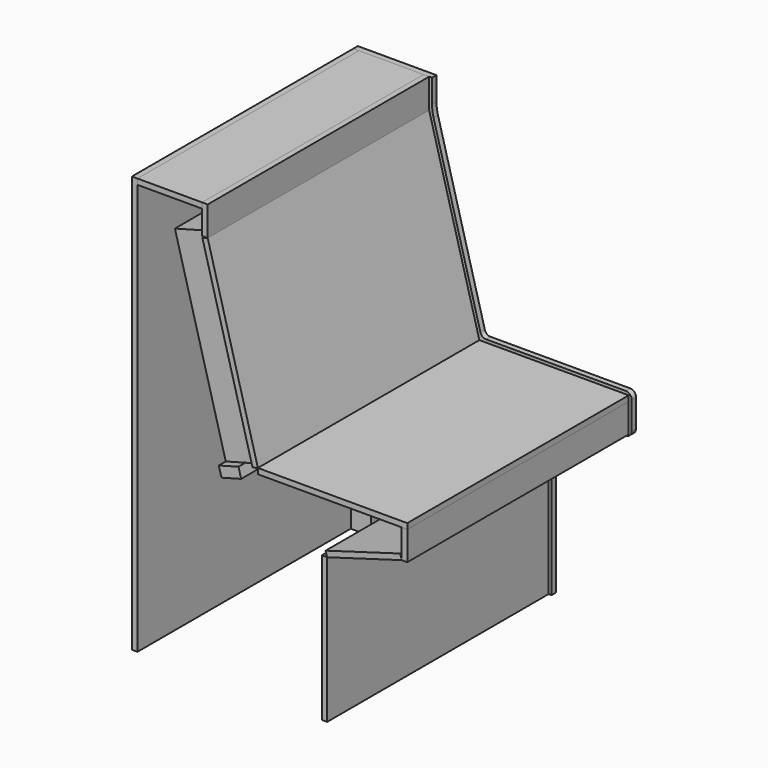
from build123d import *

# Parameters (mm, degrees)
F0_W     = 18
F0_H     = 497.5054570848
F0_W_2   = 222
F0_H_2   = 19
F0_W_3   = 19
F0_H_3   = 99.0218156425
F1_DEPTH = 19
F2_DEPTH = 950
F3_DEPTH = 950
F5_DEPTH = 920
F6_W     = 70
F6_H     = 1411
F7_DEPTH = 35
F6_H_2   = 497.5054570848
F6_W_2   = 493.6592622864
F6_H_3   = 70
F8_DEPTH = 950


with BuildPart() as f1:
    # F0 (on Front) → F1 (new body)
    with BuildSketch(Plane.XZ):
        Polygon((432.3407377136, 690), (260, 1328.6744985857), (241.6561148831, 1323.7245613319), (413.9968525967, 685.0500627462), align=None)
        Polygon((945, 690), (432.3407377136, 690), (432.3407377136, 671), (926, 671), (945, 671), align=None)
        Polygon((664.6927387242, 515.7491677203), (670, 497.5054570848), (926, 571.9781843575), (920.6927387242, 590.221894993), align=None)
        with Locations((661, 248.7527285424)):
            Rectangle(F0_W, F0_H)
        Polygon((0, 1430), (0, 0), (19, 0), (19, 1411), (19, 1430), align=None)
        with Locations((130, 1420.5)):
            Rectangle(F0_W_2, F0_H_2)
        Polygon((260, 1430), (241, 1430), (241, 1411), (241, 1328.6744985857), (260, 1328.6744985857), align=None)
        with BuildLine():
            Line((670, 497.5054570848), (670, 0))
            Line((670, 0), (680, 0))
            Line((680, 0), (680, 474.9890858304))
            ThreePointArc((680, 474.9890858304), (684.0041909187, 486.99467169), (694.4134091834, 494.1929917624))
            Line((694.4134091834, 494.1929917624), (940.5865908166, 565.8070082376))
            ThreePointArc((940.5865908166, 565.8070082376), (950.9958090813, 573.00532831), (955, 585.0109141696))
            Line((955, 585.0109141696), (955, 680))
            ThreePointArc((955, 680), (949.1421356237, 694.1421356237), (935, 700))
            Line((935, 700), (455.3185245728, 700))
            ThreePointArc((455.3185245728, 700), (443.1572994154, 704.122197801), (436.0091718181, 714.7895397329))
            Line((436.0091718181, 714.7895397329), (275.1798543399, 1310.8040692109))
            ThreePointArc((275.1798543399, 1310.8040692109), (271.300602138, 1330.1723949973), (270, 1349.8825212144))
            Line((270, 1349.8825212144), (270, 1430))
            Line((270, 1430), (260, 1430))
            Line((260, 1430), (260, 1328.6744985857))
            Line((260, 1328.6744985857), (432.3407377136, 690))
            Line((432.3407377136, 690), (945, 690))
            Line((945, 690), (945, 671))
            Line((945, 671), (945, 571.9781843575))
            Line((945, 571.9781843575), (926, 571.9781843575))
            Line((926, 571.9781843575), (670, 497.5054570848))
        make_face()
        with Locations((935.5, 621.4890921788)):
            Rectangle(F0_W_3, F0_H_3)
        Polygon((19, 1411), (19, 0), (652, 0), (652, 497.5054570848), (670, 497.5054570848), (664.6927387242, 515.7491677203), (920.6927387242, 590.221894993), (926, 571.9781843575), (926, 671), (432.3407377136, 671), (432.3407377136, 690), (413.9968525967, 685.0500627462), (241.6561148831, 1323.7245613319), (260, 1328.6744985857), (241, 1328.6744985857), (241, 1411), align=None)
    extrude(amount=-F1_DEPTH)


with BuildPart() as f2:
    # F0 (on Front) → F2 (new body)
    with BuildSketch(Plane.XZ):
        Polygon((0, 1430), (0, 0), (19, 0), (19, 1411), (19, 1430), align=None)
    extrude(amount=F2_DEPTH)


with BuildPart() as f2b:
    # F0 (on Front) → F2, piece 2 (new body)
    with BuildSketch(Plane.XZ):
        with Locations((661, 248.7527285424)):
            Rectangle(F0_W, F0_H)
    extrude(amount=F2_DEPTH)


with BuildPart() as f2c:
    # F0 (on Front) → F2, piece 3 (new body)
    with BuildSketch(Plane.XZ):
        Polygon((664.6927387242, 515.7491677203), (670, 497.5054570848), (926, 571.9781843575), (920.6927387242, 590.221894993), align=None)
    extrude(amount=F2_DEPTH)


with BuildPart() as f2d:
    # F0 (on Front) → F2, piece 4 (new body)
    with BuildSketch(Plane.XZ):
        Polygon((945, 690), (432.3407377136, 690), (432.3407377136, 671), (926, 671), (945, 671), align=None)
    extrude(amount=F2_DEPTH)


with BuildPart() as f2e:
    # F0 (on Front) → F2, piece 5 (new body)
    with BuildSketch(Plane.XZ):
        Polygon((432.3407377136, 690), (260, 1328.6744985857), (241.6561148831, 1323.7245613319), (413.9968525967, 685.0500627462), align=None)
    extrude(amount=F2_DEPTH)


with BuildPart() as f2f:
    # F0 (on Front) → F2, piece 6 (new body)
    with BuildSketch(Plane.XZ):
        Polygon((260, 1430), (241, 1430), (241, 1411), (241, 1328.6744985857), (260, 1328.6744985857), align=None)
    extrude(amount=F2_DEPTH)


with BuildPart() as f3:
    # F0 (on Front) → F3 (new body)
    with BuildSketch(Plane.XZ):
        with Locations((935.5, 621.4890921788)):
            Rectangle(F0_W_3, F0_H_3)
    extrude(amount=F3_DEPTH)


with BuildPart() as f3b:
    # F0 (on Front) → F3, piece 2 (new body)
    with BuildSketch(Plane.XZ):
        with Locations((130, 1420.5)):
            Rectangle(F0_W_2, F0_H_2)
    extrude(amount=F3_DEPTH)


with BuildPart() as f5:
    # F4 (on Front) → F5 (new body)
    with BuildSketch(Plane.XZ):
        Polygon((413.9968525967, 685.0500627462), (239.4464336476, 1331.9133800279), (123.5903171196, 1300.6506184251), (298.1407360686, 653.7873011434), align=None)
    extrude(amount=F5_DEPTH)


with BuildPart() as f7:
    # F6 (on Front) → F7 (new body)
    with BuildSketch(Plane.XZ):
        with Locations((54, 705.5)):
            Rectangle(F6_W, F6_H)
    extrude(amount=F7_DEPTH)


with BuildPart() as f7b:
    # F6 (on Front) → F7, piece 2 (new body)
    with BuildSketch(Plane.XZ):
        Polygon((374.8417761774, 638.2325447577), (307.2590415361, 619.9959338227), (307.2590415361, 0), (377.2590415361, 0), (377.2590415361, 638.8848227116), align=None)
    extrude(amount=F7_DEPTH)


with BuildPart() as f7c:
    # F6 (on Front) → F7, piece 3 (new body)
    with BuildSketch(Plane.XZ):
        with Locations((617, 248.7527285424)):
            Rectangle(F6_W, F6_H_2)
    extrude(amount=F7_DEPTH)


with BuildPart() as f7d:
    # F6 (on Front) → F7, piece 4 (new body)
    with BuildSketch(Plane.XZ):
        with Locations((679.1703688568, 636)):
            Rectangle(F6_W_2, F6_H_3)
    extrude(amount=F7_DEPTH)


with BuildPart() as f8:
    # F6 (on Front) → F8 (new body)
    with BuildSketch(Plane.XZ):
        Polygon((365.72347071, 672.0239120784), (298.1407360686, 653.7873011434), (307.2590415361, 619.9959338227), (374.8417761774, 638.2325447577), align=None)
    extrude(amount=F8_DEPTH)


solid = Compound([f1.part, f2.part, f2b.part, f2c.part, f2d.part, f2e.part, f2f.part, f3.part, f3b.part, f5.part, f7.part, f7b.part, f7c.part, f7d.part, f8.part])
